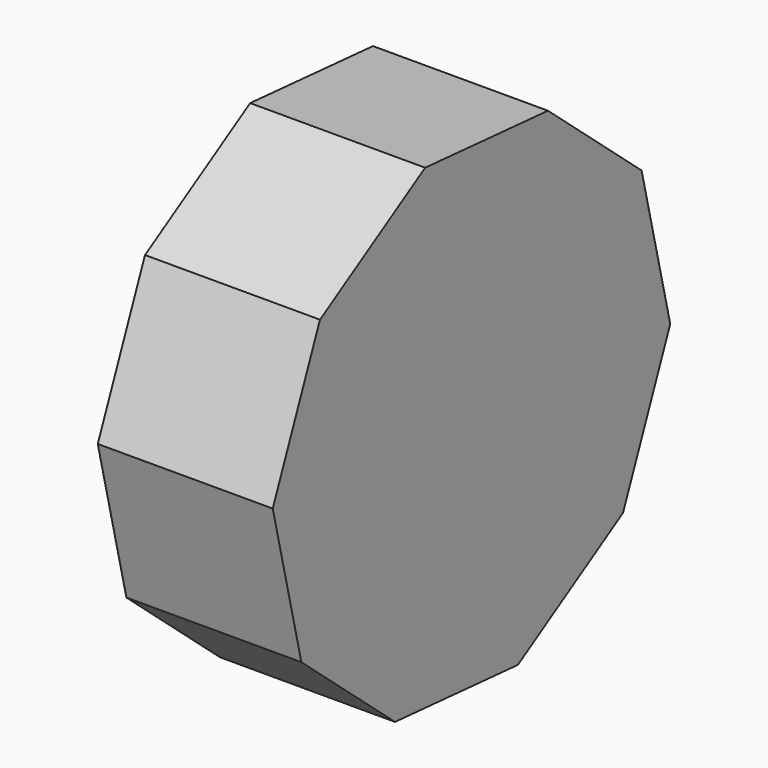
from build123d import *

# Parameters (mm, degrees)
F1_DEPTH = 25
F2_T     = -2.5


with BuildPart() as f1:
    # F0 (on Right) → F1 (new body)
    with BuildSketch(Plane.YZ):
        Polygon((-50.199022, 31.875195), (-41.756677, 52.199324), (-46.872901, 73.604176), (-63.593468, 87.913824), (-85.531692, 89.662469), (-104.307915, 78.182189), (-112.750259, 57.858059), (-107.634036, 36.453208), (-90.913468, 22.14356), (-68.975245, 20.394915), align=None)
        Polygon((-78.818129, 35.398706), (-90.057522, 40.067385), (-96.406201, 50.450774), (-95.439187, 62.582772), (-87.525847, 71.829368), (-75.688807, 74.658677), (-64.449415, 69.989999), (-58.100736, 59.60661), (-59.06775, 47.474612), (-66.98109, 38.228015), align=None, mode=Mode.SUBTRACT)
        Polygon((-96.406201, 50.450774), (-90.057522, 40.067385), (-78.818129, 35.398706), (-66.98109, 38.228015), (-59.06775, 47.474612), (-58.100736, 59.60661), (-64.449415, 69.989999), (-75.688807, 74.658677), (-87.525847, 71.829368), (-95.439187, 62.582772), align=None)
    extrude(amount=-F1_DEPTH)

    # F2
    f2_openings = [f1.faces().sort_by_distance(p)[0] for p in [
        (-25, -77.253468, 55.028692),
    ]]
    offset(amount=F2_T, openings=f2_openings)


solid = f1.part
